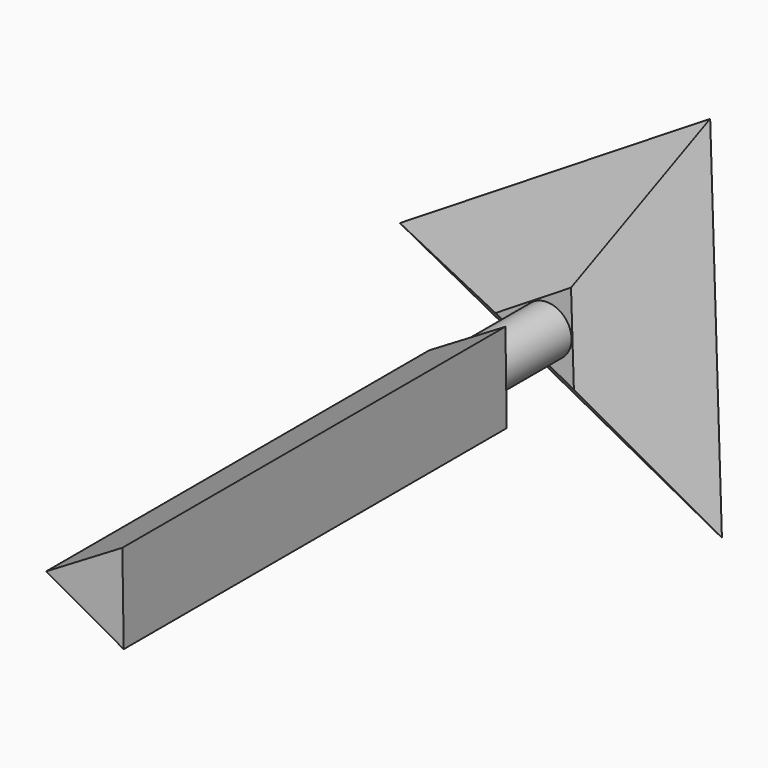
from build123d import *

# Parameters (mm, degrees)
F1_DEPTH = 150
F2_R     = 7.7571961337
F3_DEPTH = 26
F5_DEPTH = 25
F5_TAPER = -45


with BuildPart() as f1:
    # F0 (on Front) → F1 (new body)
    with BuildSketch(Plane.XZ):
        Polygon((7.8226845391, 14.0423364191), (-16.0723623369, -0.2465246729), (8.2496777979, -13.7958117462), align=None)
    extrude(amount=F1_DEPTH)

    # F2 (on Front) → F3 (join)
    with BuildSketch(Plane.XZ):
        Circle(F2_R)
    extrude(amount=-F3_DEPTH)

    # F4 (on face) → F5 (join)
    with BuildSketch(Plane(origin=(0, 26, 0), x_dir=(-1, 0, 0), z_dir=(0, 1, 0))):
        Polygon((-7.5836269453, 14.1686063395), (-8.4785595536, -13.6519167572), (16.0621864989, -0.5166895823), align=None)
    extrude(amount=F5_DEPTH, taper=F5_TAPER)


solid = f1.part
